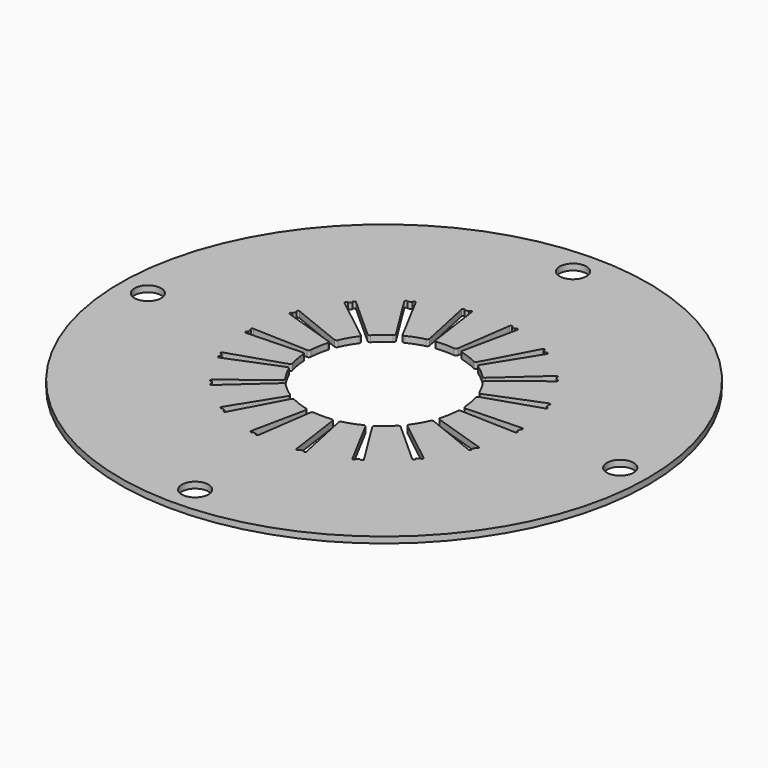
from build123d import *

# Parameters (mm, degrees)
F0_R     = 97.79
F0_R_2   = 4.953
F1_DEPTH = 2.286
F3_DEPTH = 25.4
F4_R     = 0.762


with BuildPart() as f1:
    # F0 (on Top) → F1 (new body)
    with BuildSketch(Plane.XY):
        Circle(F0_R)
        with Locations((0, -87.503)):
            Circle(F0_R_2, mode=Mode.SUBTRACT)
        with Locations((-87.503, 0)):
            Circle(F0_R_2, mode=Mode.SUBTRACT)
        with BuildLine():
            ThreePointArc((49.8187876728, 1.6916415289), (49.8403214013, 0.8459425897), (49.8475, 0))
            ThreePointArc((49.8475, 0), (49.8403214013, -0.8459425897), (49.8187876728, -1.6916415289))
            ThreePointArc((49.8187876728, -1.6916415289), (49.0902044683, -8.6559275363), (47.3929226308, -15.4494058385))
            ThreePointArc((47.3929226308, -15.4494058385), (46.8413279146, -17.0488490944), (46.2357716745, -18.6286519619))
            ThreePointArc((46.2357716745, -18.6286519619), (43.1692013151, -24.92375), (39.2507716745, -30.7270268527))
            ThreePointArc((39.2507716745, -30.7270268527), (38.1854003784, -32.0413553738), (37.0760392449, -33.3187720386))
            ThreePointArc((37.0760392449, -33.3187720386), (32.0413553738, -38.1854003784), (26.3743983745, -42.298514946))
            ThreePointArc((26.3743983745, -42.298514946), (24.92375, -43.1692013151), (23.4443892983, -43.9901564748))
            ThreePointArc((23.4443892983, -43.9901564748), (17.0488490944, -46.8413279146), (10.3168833859, -48.7681778771))
            ThreePointArc((10.3168833859, -48.7681778771), (8.6559275363, -49.0902044683), (6.985, -49.3556788146))
            ThreePointArc((6.985, -49.3556788146), (0, -49.8475), (-6.985, -49.3556788146))
            ThreePointArc((-6.985, -49.3556788146), (-8.6559275363, -49.0902044683), (-10.3168833859, -48.7681778771))
            ThreePointArc((-10.3168833859, -48.7681778771), (-17.0488490944, -46.8413279146), (-23.4443892983, -43.9901564748))
            ThreePointArc((-23.4443892983, -43.9901564748), (-24.92375, -43.1692013151), (-26.3743983745, -42.298514946))
            ThreePointArc((-26.3743983745, -42.298514946), (-32.0413553738, -38.1854003784), (-37.0760392449, -33.3187720386))
            ThreePointArc((-37.0760392449, -33.3187720386), (-38.1854003784, -32.0413553738), (-39.2507716745, -30.7270268527))
            ThreePointArc((-39.2507716745, -30.7270268527), (-43.1692013151, -24.92375), (-46.2357716745, -18.6286519619))
            ThreePointArc((-46.2357716745, -18.6286519619), (-46.8413279146, -17.0488490944), (-47.3929226308, -15.4494058385))
            ThreePointArc((-47.3929226308, -15.4494058385), (-49.0902044683, -8.6559275363), (-49.8187876728, -1.6916415289))
            ThreePointArc((-49.8187876728, -1.6916415289), (-49.8475, 0), (-49.8187876728, 1.6916415289))
            ThreePointArc((-49.8187876728, 1.6916415289), (-49.0902044683, 8.6559275363), (-47.3929226308, 15.4494058385))
            ThreePointArc((-47.3929226308, 15.4494058385), (-46.8413279146, 17.0488490944), (-46.2357716745, 18.6286519619))
            ThreePointArc((-46.2357716745, 18.6286519619), (-43.1692013151, 24.92375), (-39.2507716745, 30.7270268527))
            ThreePointArc((-39.2507716745, 30.7270268527), (-38.1854003784, 32.0413553738), (-37.0760392449, 33.3187720386))
            ThreePointArc((-37.0760392449, 33.3187720386), (-32.0413553738, 38.1854003784), (-26.3743983745, 42.298514946))
            ThreePointArc((-26.3743983745, 42.298514946), (-24.92375, 43.1692013151), (-23.4443892983, 43.9901564748))
            ThreePointArc((-23.4443892983, 43.9901564748), (-17.0488490944, 46.8413279146), (-10.3168833859, 48.7681778771))
            ThreePointArc((-10.3168833859, 48.7681778771), (-8.6559275363, 49.0902044683), (-6.985, 49.3556788146))
            ThreePointArc((-6.985, 49.3556788146), (0, 49.8475), (6.985, 49.3556788146))
            ThreePointArc((6.985, 49.3556788146), (8.6559275363, 49.0902044683), (10.3168833859, 48.7681778771))
            ThreePointArc((10.3168833859, 48.7681778771), (17.0488490944, 46.8413279146), (23.4443892983, 43.9901564748))
            ThreePointArc((23.4443892983, 43.9901564748), (24.92375, 43.1692013151), (26.3743983745, 42.298514946))
            ThreePointArc((26.3743983745, 42.298514946), (32.0413553738, 38.1854003784), (37.0760392449, 33.3187720386))
            ThreePointArc((37.0760392449, 33.3187720386), (38.1854003784, 32.0413553738), (39.2507716745, 30.7270268527))
            ThreePointArc((39.2507716745, 30.7270268527), (43.1692013151, 24.92375), (46.2357716745, 18.6286519619))
            ThreePointArc((46.2357716745, 18.6286519619), (46.8413279146, 17.0488490944), (47.3929226308, 15.4494058385))
            ThreePointArc((47.3929226308, 15.4494058385), (49.0902044683, 8.6559275363), (49.8187876728, 1.6916415289))
        make_face(mode=Mode.SUBTRACT)
        with Locations((87.503, 0)):
            Circle(F0_R_2, mode=Mode.SUBTRACT)
        with Locations((0, 87.503)):
            Circle(F0_R_2, mode=Mode.SUBTRACT)
        with BuildLine():
            Line((26.5045824885, 10.6788450737), (46.2357716745, 18.6286519619))
            ThreePointArc((46.2357716745, 18.6286519619), (43.1692013151, 24.92375), (39.2507716745, 30.7270268527))
            Line((39.2507716745, 30.7270268527), (22.5004423612, 17.6142192149))
            ThreePointArc((22.5004423612, 17.6142192149), (24.7466759131, 14.2875), (26.5045824885, 10.6788450737))
        make_face()
        with BuildLine():
            Line((21.2537804588, 19.0999330158), (37.0760392449, 33.3187720386))
            ThreePointArc((37.0760392449, 33.3187720386), (32.0413553738, 38.1854003784), (26.3743983745, 42.298514946))
            Line((26.3743983745, 42.298514946), (15.1190818707, 24.2475563384))
            ThreePointArc((15.1190818707, 24.2475563384), (18.3676559468, 21.8897199621), (21.2537804588, 19.0999330158))
        make_face()
        with BuildLine():
            Line((13.4394588334, 25.2172871512), (23.4443892983, 43.9901564748))
            ThreePointArc((23.4443892983, 43.9901564748), (17.0488490944, 46.8413279146), (10.3168833859, 48.7681778771))
            Line((10.3168833859, 48.7681778771), (5.9141369728, 27.9562803117))
            ThreePointArc((5.9141369728, 27.9562803117), (9.7732255955, 26.851716639), (13.4394588334, 25.2172871512))
        make_face()
        with BuildLine():
            Line((4.0041401274, 28.2930642886), (6.985, 49.3556788146))
            ThreePointArc((6.985, 49.3556788146), (0, 49.8475), (-6.985, 49.3556788146))
            Line((-6.985, 49.3556788146), (-4.0041401274, 28.2930642886))
            ThreePointArc((-4.0041401274, 28.2930642886), (0, 28.575), (4.0041401274, 28.2930642886))
        make_face()
        with BuildLine():
            Line((-5.9141369728, 27.9562803117), (-10.3168833859, 48.7681778771))
            ThreePointArc((-10.3168833859, 48.7681778771), (-17.0488490944, 46.8413279146), (-23.4443892983, 43.9901564748))
            Line((-23.4443892983, 43.9901564748), (-13.4394588334, 25.2172871512))
            ThreePointArc((-13.4394588334, 25.2172871512), (-9.7732255955, 26.851716639), (-5.9141369728, 27.9562803117))
        make_face()
        with BuildLine():
            Line((-15.1190818707, 24.2475563384), (-26.3743983745, 42.298514946))
            ThreePointArc((-26.3743983745, 42.298514946), (-32.0413553738, 38.1854003784), (-37.0760392449, 33.3187720386))
            Line((-37.0760392449, 33.3187720386), (-21.2537804588, 19.0999330158))
            ThreePointArc((-21.2537804588, 19.0999330158), (-18.3676559468, 21.8897199621), (-15.1190818707, 24.2475563384))
        make_face()
        with BuildLine():
            Line((-22.5004423612, 17.6142192149), (-39.2507716745, 30.7270268527))
            ThreePointArc((-39.2507716745, 30.7270268527), (-43.1692013151, 24.92375), (-46.2357716745, 18.6286519619))
            Line((-46.2357716745, 18.6286519619), (-26.5045824885, 10.6788450737))
            ThreePointArc((-26.5045824885, 10.6788450737), (-24.7466759131, 14.2875), (-22.5004423612, 17.6142192149))
        make_face()
        with BuildLine():
            Line((-27.1679174317, 8.8563472959), (-47.3929226308, 15.4494058385))
            ThreePointArc((-47.3929226308, 15.4494058385), (-49.0902044683, 8.6559275363), (-49.8187876728, 1.6916415289))
            Line((-49.8187876728, 1.6916415289), (-28.5585407042, 0.9697308127))
            ThreePointArc((-28.5585407042, 0.9697308127), (-28.1408815423, 4.9619966768), (-27.1679174317, 8.8563472959))
        make_face()
        with BuildLine():
            ThreePointArc((-49.8187876728, -1.6916415289), (-49.0902044683, -8.6559275363), (-47.3929226308, -15.4494058385))
            Line((-47.3929226308, -15.4494058385), (-27.1679174317, -8.8563472959))
            ThreePointArc((-27.1679174317, -8.8563472959), (-28.1408815423, -4.9619966768), (-28.5585407042, -0.9697308127))
            Line((-28.5585407042, -0.9697308127), (-49.8187876728, -1.6916415289))
        make_face()
        with BuildLine():
            ThreePointArc((-46.2357716745, -18.6286519619), (-43.1692013151, -24.92375), (-39.2507716745, -30.7270268527))
            Line((-39.2507716745, -30.7270268527), (-22.5004423612, -17.6142192149))
            ThreePointArc((-22.5004423612, -17.6142192149), (-24.7466759131, -14.2875), (-26.5045824885, -10.6788450737))
            Line((-26.5045824885, -10.6788450737), (-46.2357716745, -18.6286519619))
        make_face()
        with BuildLine():
            ThreePointArc((-37.0760392449, -33.3187720386), (-32.0413553738, -38.1854003784), (-26.3743983745, -42.298514946))
            Line((-26.3743983745, -42.298514946), (-15.1190818707, -24.2475563384))
            ThreePointArc((-15.1190818707, -24.2475563384), (-18.3676559468, -21.8897199621), (-21.2537804588, -19.0999330158))
            Line((-21.2537804588, -19.0999330158), (-37.0760392449, -33.3187720386))
        make_face()
        with BuildLine():
            ThreePointArc((-23.4443892983, -43.9901564748), (-17.0488490944, -46.8413279146), (-10.3168833859, -48.7681778771))
            Line((-10.3168833859, -48.7681778771), (-5.9141369728, -27.9562803117))
            ThreePointArc((-5.9141369728, -27.9562803117), (-9.7732255955, -26.851716639), (-13.4394588334, -25.2172871512))
            Line((-13.4394588334, -25.2172871512), (-23.4443892983, -43.9901564748))
        make_face()
        with BuildLine():
            ThreePointArc((-6.985, -49.3556788146), (0, -49.8475), (6.985, -49.3556788146))
            Line((6.985, -49.3556788146), (4.0041401274, -28.2930642886))
            ThreePointArc((4.0041401274, -28.2930642886), (0, -28.575), (-4.0041401274, -28.2930642886))
            Line((-4.0041401274, -28.2930642886), (-6.985, -49.3556788146))
        make_face()
        with BuildLine():
            ThreePointArc((10.3168833859, -48.7681778771), (17.0488490944, -46.8413279146), (23.4443892983, -43.9901564748))
            Line((23.4443892983, -43.9901564748), (13.4394588334, -25.2172871512))
            ThreePointArc((13.4394588334, -25.2172871512), (9.7732255955, -26.851716639), (5.9141369728, -27.9562803117))
            Line((5.9141369728, -27.9562803117), (10.3168833859, -48.7681778771))
        make_face()
        with BuildLine():
            ThreePointArc((26.3743983745, -42.298514946), (32.0413553738, -38.1854003784), (37.0760392449, -33.3187720386))
            Line((37.0760392449, -33.3187720386), (21.2537804588, -19.0999330158))
            ThreePointArc((21.2537804588, -19.0999330158), (18.3676559468, -21.8897199621), (15.1190818707, -24.2475563384))
            Line((15.1190818707, -24.2475563384), (26.3743983745, -42.298514946))
        make_face()
        with BuildLine():
            ThreePointArc((39.2507716745, -30.7270268527), (43.1692013151, -24.92375), (46.2357716745, -18.6286519619))
            Line((46.2357716745, -18.6286519619), (26.5045824885, -10.6788450737))
            ThreePointArc((26.5045824885, -10.6788450737), (24.7466759131, -14.2875), (22.5004423612, -17.6142192149))
            Line((22.5004423612, -17.6142192149), (39.2507716745, -30.7270268527))
        make_face()
        with BuildLine():
            ThreePointArc((47.3929226308, -15.4494058385), (49.0902044683, -8.6559275363), (49.8187876728, -1.6916415289))
            Line((49.8187876728, -1.6916415289), (28.5585407042, -0.9697308127))
            ThreePointArc((28.5585407042, -0.9697308127), (28.1408815423, -4.9619966768), (27.1679174317, -8.8563472959))
            Line((27.1679174317, -8.8563472959), (47.3929226308, -15.4494058385))
        make_face()
        with BuildLine():
            Line((28.5585407042, 0.9697308127), (49.8187876728, 1.6916415289))
            ThreePointArc((49.8187876728, 1.6916415289), (49.0902044683, 8.6559275363), (47.3929226308, 15.4494058385))
            Line((47.3929226308, 15.4494058385), (27.1679174317, 8.8563472959))
            ThreePointArc((27.1679174317, 8.8563472959), (28.1408815423, 4.9619966768), (28.5585407042, 0.9697308127))
        make_face()
    extrude(amount=F1_DEPTH)

    # F2 (on face) → F3 (cut)
    with BuildSketch(Plane(origin=(0, 0, 0), x_dir=(1, 0, 0), z_dir=(0, 0, -1))):
        with BuildLine():
            ThreePointArc((46.6058215859, -17.6824955974), (46.4232071571, -18.1565165575), (46.2357716745, -18.6286519619))
            ThreePointArc((46.2357716745, -18.6286519619), (46.8987205572, -18.3424939479), (46.6058215859, -17.6824955974))
        make_face()
        with BuildLine():
            ThreePointArc((39.2507716745, -30.7270268527), (38.9356081616, -31.1254184444), (38.6164011826, -31.5205776589))
            ThreePointArc((38.6164011826, -31.5205776589), (39.3344260063, -31.4442364336), (39.2507716745, -30.7270268527))
        make_face()
        with BuildLine():
            ThreePointArc((37.7473769513, -32.5562404086), (37.4136508034, -32.9392165937), (37.0760392449, -33.3187720386))
            ThreePointArc((37.0760392449, -33.3187720386), (37.7968792229, -33.2766133365), (37.7473769513, -32.5562404086))
        make_face()
        with BuildLine():
            ThreePointArc((26.3743983745, -42.298514946), (25.9419835978, -42.565088315), (25.506874744, -42.8272412962))
            ThreePointArc((25.506874744, -42.8272412962), (26.2077076092, -43.0010829632), (26.3743983745, -42.298514946))
        make_face()
        with BuildLine():
            ThreePointArc((24.3360415645, -43.5032221476), (23.8914559962, -43.7489609777), (23.4443892983, -43.9901564748))
            ThreePointArc((23.4443892983, -43.9901564748), (24.1361764318, -44.1970820461), (24.3360415645, -43.5032221476))
        make_face()
        with BuildLine():
            ThreePointArc((7.9894204033, -49.2030732564), (7.4875989955, -49.2819350019), (6.985, -49.3556788146))
            ThreePointArc((6.985, -49.3556788146), (7.5642945509, -49.7867303815), (7.9894204033, -49.2030732564))
        make_face()
        with BuildLine():
            ThreePointArc((10.3168833859, -48.7681778771), (9.8193729492, -48.870780341), (9.3208427699, -48.9683075704))
            ThreePointArc((9.3208427699, -48.9683075704), (9.9199528898, -49.371364259), (10.3168833859, -48.7681778771))
        make_face()
        with BuildLine():
            ThreePointArc((-6.985, -49.3556788146), (-7.4875989955, -49.2819350019), (-7.9894204033, -49.2030732564))
            ThreePointArc((-7.9894204033, -49.2030732564), (-7.5642945509, -49.7867303815), (-6.985, -49.3556788146))
        make_face()
        with BuildLine():
            ThreePointArc((-10.3168833859, -48.7681778771), (-9.9199528898, -49.371364259), (-9.3208427699, -48.9683075704))
            ThreePointArc((-9.3208427699, -48.9683075704), (-9.8193729492, -48.870780341), (-10.3168833859, -48.7681778771))
        make_face()
        with BuildLine():
            ThreePointArc((-24.3360415645, -43.5032221476), (-24.1361764318, -44.1970820461), (-23.4443892983, -43.9901564748))
            ThreePointArc((-23.4443892983, -43.9901564748), (-23.8914559962, -43.7489609777), (-24.3360415645, -43.5032221476))
        make_face()
        with BuildLine():
            ThreePointArc((-26.3743983745, -42.298514946), (-26.2077076092, -43.0010829632), (-25.506874744, -42.8272412962))
            ThreePointArc((-25.506874744, -42.8272412962), (-25.9419835978, -42.565088315), (-26.3743983745, -42.298514946))
        make_face()
        with BuildLine():
            ThreePointArc((-37.7473769513, -32.5562404086), (-37.7968792229, -33.2766133365), (-37.0760392449, -33.3187720386))
            ThreePointArc((-37.0760392449, -33.3187720386), (-37.4136508034, -32.9392165937), (-37.7473769513, -32.5562404086))
        make_face()
        with BuildLine():
            ThreePointArc((-39.2507716745, -30.7270268527), (-39.3344260063, -31.4442364336), (-38.6164011826, -31.5205776589))
            ThreePointArc((-38.6164011826, -31.5205776589), (-38.9356081616, -31.1254184444), (-39.2507716745, -30.7270268527))
        make_face()
        with BuildLine():
            ThreePointArc((-46.6058215859, -17.6824955974), (-46.8987205572, -18.3424939479), (-46.2357716745, -18.6286519619))
            ThreePointArc((-46.2357716745, -18.6286519619), (-46.4232071571, -18.1565165575), (-46.6058215859, -17.6824955974))
        make_face()
        with BuildLine():
            ThreePointArc((-47.3929226308, -15.4494058385), (-47.7168321127, -16.0947509226), (-47.0682197212, -16.4120671618))
            ThreePointArc((-47.0682197212, -16.4120671618), (-47.2330237527, -15.9315637472), (-47.3929226308, -15.4494058385))
        make_face()
        with BuildLine():
            ThreePointArc((-49.8429163085, -0.6759808514), (-50.3438840409, -1.1959990829), (-49.8187876728, -1.6916415289))
            ThreePointArc((-49.8187876728, -1.6916415289), (-49.833439594, -1.1838726628), (-49.8429163085, -0.6759808514))
        make_face()
        with BuildLine():
            ThreePointArc((-49.8187876728, 1.6916415289), (-50.3438840409, 1.1959990829), (-49.8429163085, 0.6759808514))
            ThreePointArc((-49.8429163085, 0.6759808514), (-49.833439594, 1.1838726628), (-49.8187876728, 1.6916415289))
        make_face()
        with BuildLine():
            ThreePointArc((-46.2357716745, 18.6286519619), (-46.8987205572, 18.3424939479), (-46.6058215859, 17.6824955974))
            ThreePointArc((-46.6058215859, 17.6824955974), (-46.4232071571, 18.1565165575), (-46.2357716745, 18.6286519619))
        make_face()
        with BuildLine():
            ThreePointArc((-47.0682197212, 16.4120671618), (-47.7168321127, 16.0947509226), (-47.3929226308, 15.4494058385))
            ThreePointArc((-47.3929226308, 15.4494058385), (-47.2330237527, 15.9315637472), (-47.0682197212, 16.4120671618))
        make_face()
        with BuildLine():
            ThreePointArc((-37.0760392449, 33.3187720386), (-37.7968792229, 33.2766133365), (-37.7473769513, 32.5562404086))
            ThreePointArc((-37.7473769513, 32.5562404086), (-37.4136508034, 32.9392165937), (-37.0760392449, 33.3187720386))
        make_face()
        with BuildLine():
            ThreePointArc((-38.6164011826, 31.5205776589), (-39.3344260063, 31.4442364336), (-39.2507716745, 30.7270268527))
            ThreePointArc((-39.2507716745, 30.7270268527), (-38.9356081616, 31.1254184444), (-38.6164011826, 31.5205776589))
        make_face()
        with BuildLine():
            ThreePointArc((-25.506874744, 42.8272412962), (-26.2077076092, 43.0010829632), (-26.3743983745, 42.298514946))
            ThreePointArc((-26.3743983745, 42.298514946), (-25.9419835978, 42.565088315), (-25.506874744, 42.8272412962))
        make_face()
        with BuildLine():
            ThreePointArc((-23.4443892983, 43.9901564748), (-24.1361764318, 44.1970820461), (-24.3360415645, 43.5032221476))
            ThreePointArc((-24.3360415645, 43.5032221476), (-23.8914559962, 43.7489609777), (-23.4443892983, 43.9901564748))
        make_face()
        with BuildLine():
            ThreePointArc((-9.3208427699, 48.9683075704), (-9.9199528898, 49.371364259), (-10.3168833859, 48.7681778771))
            ThreePointArc((-10.3168833859, 48.7681778771), (-9.8193729492, 48.870780341), (-9.3208427699, 48.9683075704))
        make_face()
        with BuildLine():
            ThreePointArc((-6.985, 49.3556788146), (-7.5642945509, 49.7867303815), (-7.9894204033, 49.2030732564))
            ThreePointArc((-7.9894204033, 49.2030732564), (-7.4875989955, 49.2819350019), (-6.985, 49.3556788146))
        make_face()
        with BuildLine():
            ThreePointArc((7.9894204033, 49.2030732564), (7.5642945509, 49.7867303815), (6.985, 49.3556788146))
            ThreePointArc((6.985, 49.3556788146), (7.4875989955, 49.2819350019), (7.9894204033, 49.2030732564))
        make_face()
        with BuildLine():
            ThreePointArc((9.3208427699, 48.9683075704), (9.8193729492, 48.870780341), (10.3168833859, 48.7681778771))
            ThreePointArc((10.3168833859, 48.7681778771), (9.9199528898, 49.371364259), (9.3208427699, 48.9683075704))
        make_face()
        with BuildLine():
            ThreePointArc((23.4443892983, 43.9901564748), (23.8914559962, 43.7489609777), (24.3360415645, 43.5032221476))
            ThreePointArc((24.3360415645, 43.5032221476), (24.1361764318, 44.1970820461), (23.4443892983, 43.9901564748))
        make_face()
        with BuildLine():
            ThreePointArc((25.506874744, 42.8272412962), (25.9419835978, 42.565088315), (26.3743983745, 42.298514946))
            ThreePointArc((26.3743983745, 42.298514946), (26.2077076092, 43.0010829632), (25.506874744, 42.8272412962))
        make_face()
        with BuildLine():
            ThreePointArc((37.0760392449, 33.3187720386), (37.4136508034, 32.9392165937), (37.7473769513, 32.5562404086))
            ThreePointArc((37.7473769513, 32.5562404086), (37.7968792229, 33.2766133365), (37.0760392449, 33.3187720386))
        make_face()
        with BuildLine():
            ThreePointArc((38.6164011826, 31.5205776589), (38.9356081616, 31.1254184444), (39.2507716745, 30.7270268527))
            ThreePointArc((39.2507716745, 30.7270268527), (39.3344260063, 31.4442364336), (38.6164011826, 31.5205776589))
        make_face()
        with BuildLine():
            ThreePointArc((46.2357716745, 18.6286519619), (46.4232071571, 18.1565165575), (46.6058215859, 17.6824955974))
            ThreePointArc((46.6058215859, 17.6824955974), (46.8987205572, 18.3424939479), (46.2357716745, 18.6286519619))
        make_face()
        with BuildLine():
            ThreePointArc((47.0682197212, 16.4120671618), (47.2330237527, 15.9315637472), (47.3929226308, 15.4494058385))
            ThreePointArc((47.3929226308, 15.4494058385), (47.7168321127, 16.0947509226), (47.0682197212, 16.4120671618))
        make_face()
        with BuildLine():
            ThreePointArc((49.8187876728, 1.6916415289), (49.833439594, 1.1838726628), (49.8429163085, 0.6759808514))
            ThreePointArc((49.8429163085, 0.6759808514), (50.3438840409, 1.1959990829), (49.8187876728, 1.6916415289))
        make_face()
        with BuildLine():
            ThreePointArc((49.8429163085, -0.6759808514), (49.833439594, -1.1838726628), (49.8187876728, -1.6916415289))
            ThreePointArc((49.8187876728, -1.6916415289), (50.3438840409, -1.1959990829), (49.8429163085, -0.6759808514))
        make_face()
        with BuildLine():
            ThreePointArc((47.3929226308, -15.4494058385), (47.2330237527, -15.9315637472), (47.0682197212, -16.4120671618))
            ThreePointArc((47.0682197212, -16.4120671618), (47.7168321127, -16.0947509226), (47.3929226308, -15.4494058385))
        make_face()
    extrude(amount=-F3_DEPTH, mode=Mode.SUBTRACT)

    # F4
    f4_edges = [f1.edges().sort_by_distance(p)[0] for p in [
        (26.504582, 10.678845, 1.143),
        (21.25378, 19.099933, 1.143),
        (22.500442, 17.614219, 1.143),
        (13.439459, 25.217287, 1.143),
        (15.119082, 24.247556, 1.143),
        (5.914137, 27.95628, 1.143),
        (4.00414, 28.293064, 1.143),
        (-4.00414, 28.293064, 1.143),
        (-5.914137, 27.95628, 1.143),
        (-13.439459, 25.217287, 1.143),
        (-15.119082, 24.247556, 1.143),
        (-21.25378, 19.099933, 1.143),
        (-22.500442, 17.614219, 1.143),
        (-26.504582, 10.678845, 1.143),
        (-27.167917, 8.856347, 1.143),
        (-28.558541, 0.969731, 1.143),
        (-27.167917, -8.856347, 1.143),
        (-28.558541, -0.969731, 1.143),
        (-26.504582, -10.678845, 1.143),
        (-22.500442, -17.614219, 1.143),
        (-13.439459, -25.217287, 1.143),
        (-5.914137, -27.95628, 1.143),
        (4.00414, -28.293064, 1.143),
        (-4.00414, -28.293064, 1.143),
        (5.914137, -27.95628, 1.143),
        (15.119082, -24.247556, 1.143),
        (13.439459, -25.217287, 1.143),
        (21.25378, -19.099933, 1.143),
        (27.167917, 8.856347, 1.143),
        (28.558541, 0.969731, 1.143),
        (28.558541, -0.969731, 1.143),
        (27.167917, -8.856347, 1.143),
        (26.504582, -10.678845, 1.143),
        (22.500442, -17.614219, 1.143),
        (-21.25378, -19.099933, 1.143),
        (-15.119082, -24.247556, 1.143),
    ]]
    fillet(f4_edges, radius=F4_R)


solid = f1.part
